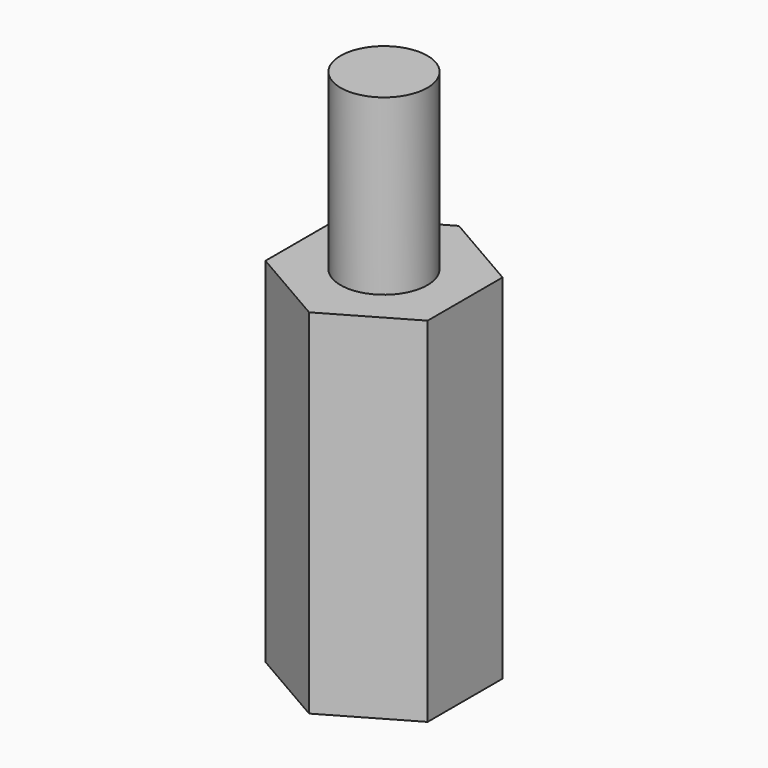
from build123d import *

# Parameters (mm, degrees)
F1_DEPTH = 12.2
F2_D     = 3
F2_DEPTH = 7.5
F2_TIP   = 0.9012909285
F3_R     = 1.5
F4_DEPTH = 6


with BuildPart() as f1:
    # F0 (on Top) → F1 (new body)
    with BuildSketch(Plane.XY):
        Polygon((2.8, -1.6165807537), (2.8, 1.6165807537), (0, 3.2331615075), (-2.8, 1.6165807537), (-2.8, -1.6165807537), (0, -3.2331615075), align=None)
    extrude(amount=F1_DEPTH)

    # F2
    with Locations(Plane(origin=(0, 0, 0), x_dir=(1, 0, 0), z_dir=(0, 0, -1))):
        with Locations((0, 0)):
            Hole(F2_D / 2, depth=F2_DEPTH)
            with Locations((0, 0, -(F2_DEPTH + F2_TIP / 2))):  # 118° drill point
                Cone(0, F2_D / 2, F2_TIP, mode=Mode.SUBTRACT)

    # F3 (on face) → F4 (join)
    with BuildSketch(Plane.XY.offset(12.2)):
        Circle(F3_R)
    extrude(amount=F4_DEPTH)


solid = f1.part
